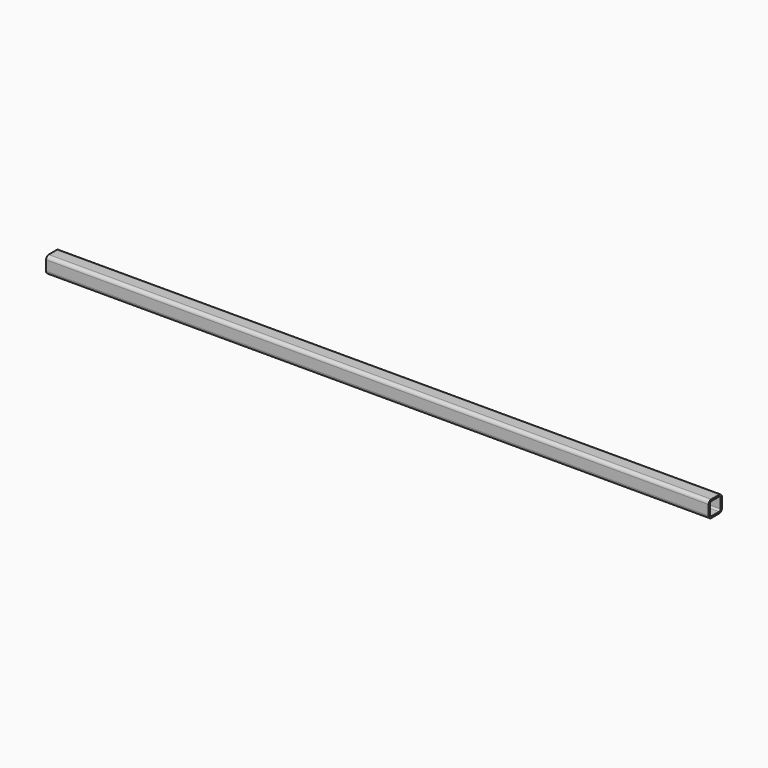
from build123d import *

# Parameters (mm, degrees)
F0_W     = 4000
F0_H     = 100
F1_DEPTH = 50
F2_R     = 20
F3_T     = -10


with BuildPart() as f1:
    # F0 (on Top) → F1 (new body, symmetric)
    with BuildSketch(Plane.XY):
        Rectangle(F0_W, F0_H)
    extrude(amount=F1_DEPTH, both=True)

    # F2
    f2_edges = [f1.edges().sort_by_distance(p)[0] for p in [
        (0, 50, 50),
        (0, -50, -50),
        (0, -50, 50),
        (0, 50, -50),
    ]]
    fillet(f2_edges, radius=F2_R)

    # F3
    f3_openings = [f1.faces().sort_by_distance(p)[0] for p in [
        (2000, 0, 0),
        (-2000, 0, 0),
    ]]
    offset(amount=F3_T, openings=f3_openings)

    # F4: F1 across plane


with BuildPart() as f1_1:
    add(f1.part)
    add(f1.part.mirror(Plane.YZ))


solid = f1_1.part
